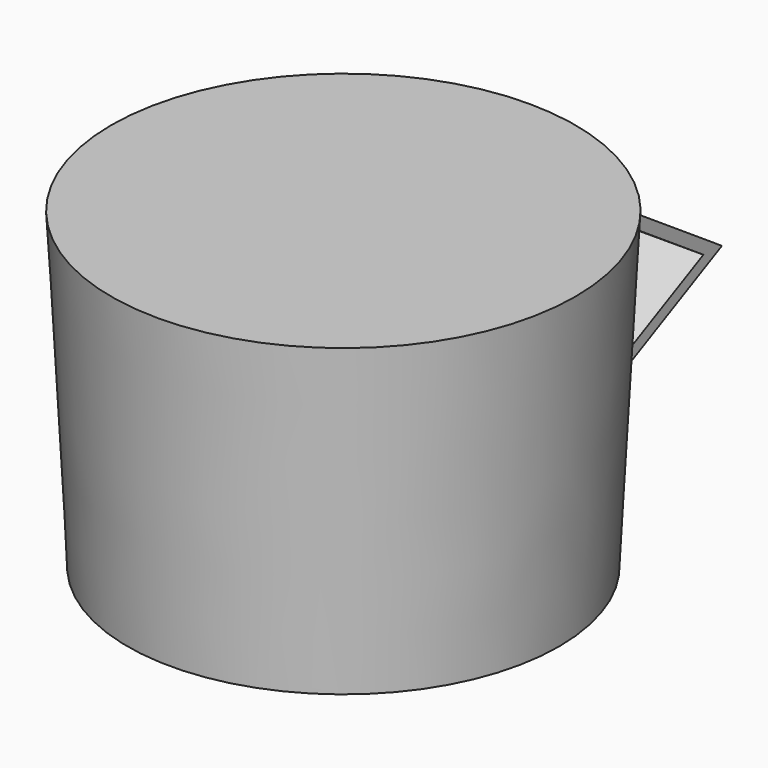
from build123d import *

# Parameters (mm, degrees)
F0_R     = 47.2037457073
F1_DEPTH = 68.58
F1_TAPER = -3
F3_DEPTH = 20.32
F4_T     = -2.54
F5_T     = -2.54


with BuildPart() as f1:
    # F0 (on Top) → F1 (new body)
    with BuildSketch(Plane.XY):
        Circle(F0_R)
    extrude(amount=F1_DEPTH, taper=F1_TAPER)

    # F5
    f5_openings = [f1.faces().sort_by_distance(p)[0] for p in [
        (0, 0, 0),
    ]]
    offset(amount=F5_T, openings=f5_openings, kind=Kind.INTERSECTION)


with BuildPart() as f3:
    # F2 (on Right) → F3 (new body, symmetric)
    with BuildSketch(Plane.YZ):
        Polygon((78.1612671151, 36.6816926789), (50.7431694437, 55.0819187667), (48.5171550519, 22.137036616), align=None)
    extrude(amount=F3_DEPTH, both=True)

    # F4
    f4_openings = [f3.faces().sort_by_distance(p)[0] for p in [
        (-20.32, 59.140531, 37.966883),
        (20.32, 59.140531, 37.966883),
    ]]
    offset(amount=F4_T, openings=f4_openings)


solid = Compound([f1.part, f3.part])
